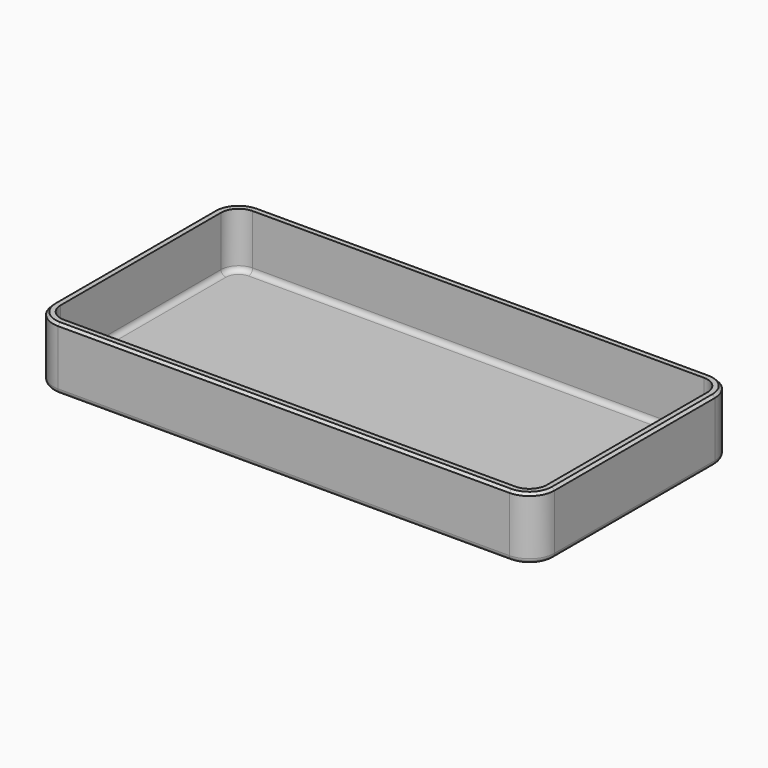
from build123d import *

# Parameters (mm, degrees)
F1_DEPTH = 25
F2_DEPTH = 3
F3_R     = 2
F4_R     = 2
F5_SIZE  = 1


with BuildPart() as f1:
    # F0 (on Top) → F1 (new body)
    with BuildSketch(Plane.XY):
        with BuildLine():
            Line((180.736435, 0), (0.736435, 0))
            ThreePointArc((0.736435, 0), (-6.334633, -2.928932), (-9.263565, -10))
            Line((-9.263565, -10), (-9.263565, -90))
            ThreePointArc((-9.263565, -90), (-6.334633, -97.071068), (0.736435, -100))
            Line((0.736435, -100), (180.736435, -100))
            ThreePointArc((180.736435, -100), (187.807502, -97.071068), (190.736435, -90))
            Line((190.736435, -90), (190.736435, -10))
            ThreePointArc((190.736435, -10), (187.807502, -2.928932), (180.736435, 0))
        make_face()
        with BuildLine():
            ThreePointArc((-6.263565, -10), (-4.213313, -5.050253), (0.736435, -3))
            Line((0.736435, -3), (180.736435, -3))
            ThreePointArc((180.736435, -3), (185.686182, -5.050253), (187.736435, -10))
            Line((187.736435, -10), (187.736435, -90))
            ThreePointArc((187.736435, -90), (185.686182, -94.949747), (180.736435, -97))
            Line((180.736435, -97), (0.736435, -97))
            ThreePointArc((0.736435, -97), (-4.213313, -94.949747), (-6.263565, -90))
            Line((-6.263565, -90), (-6.263565, -10))
        make_face(mode=Mode.SUBTRACT)
    extrude(amount=F1_DEPTH)

    # F0 (on Top) → F2 (join)
    with BuildSketch(Plane.XY):
        with BuildLine():
            Line((180.736435, -3), (0.736435, -3))
            ThreePointArc((0.736435, -3), (-4.213313, -5.050253), (-6.263565, -10))
            Line((-6.263565, -10), (-6.263565, -90))
            ThreePointArc((-6.263565, -90), (-4.213313, -94.949747), (0.736435, -97))
            Line((0.736435, -97), (180.736435, -97))
            ThreePointArc((180.736435, -97), (185.686182, -94.949747), (187.736435, -90))
            Line((187.736435, -90), (187.736435, -10))
            ThreePointArc((187.736435, -10), (185.686182, -5.050253), (180.736435, -3))
        make_face()
    extrude(amount=F2_DEPTH)

    # F3
    f3_edges = [f1.edges().sort_by_distance(p)[0] for p in [
        (-6.263565, -50, 3),
        (-4.213313, -5.050253, 3),
        (90.736435, -3, 3),
        (-4.213313, -94.949747, 3),
        (90.736435, -97, 3),
        (185.686182, -94.949747, 3),
        (187.736435, -50, 3),
        (185.686182, -5.050253, 3),
    ]]
    fillet(f3_edges, radius=F3_R)

    # F4
    f4_edges = [f1.edges().sort_by_distance(p)[0] for p in [
        (90.736435, -100, 0),
        (187.807502, -2.928932, 0),
        (90.736435, 0, 0),
        (-6.334633, -2.928932, 0),
        (-9.263565, -50, 0),
        (-6.334633, -97.071068, 0),
        (187.807502, -97.071068, 0),
        (190.736435, -50, 0),
    ]]
    fillet(f4_edges, radius=F4_R)

    # F5
    f5_edges = [f1.edges().sort_by_distance(p)[0] for p in [
        (-9.263565, -50, 25),
        (-6.334633, -97.071068, 25),
        (90.736435, -100, 25),
        (187.807502, -97.071068, 25),
        (190.736435, -50, 25),
        (187.807502, -2.928932, 25),
        (90.736435, 0, 25),
    ]]
    chamfer(f5_edges, length=F5_SIZE)


solid = f1.part
